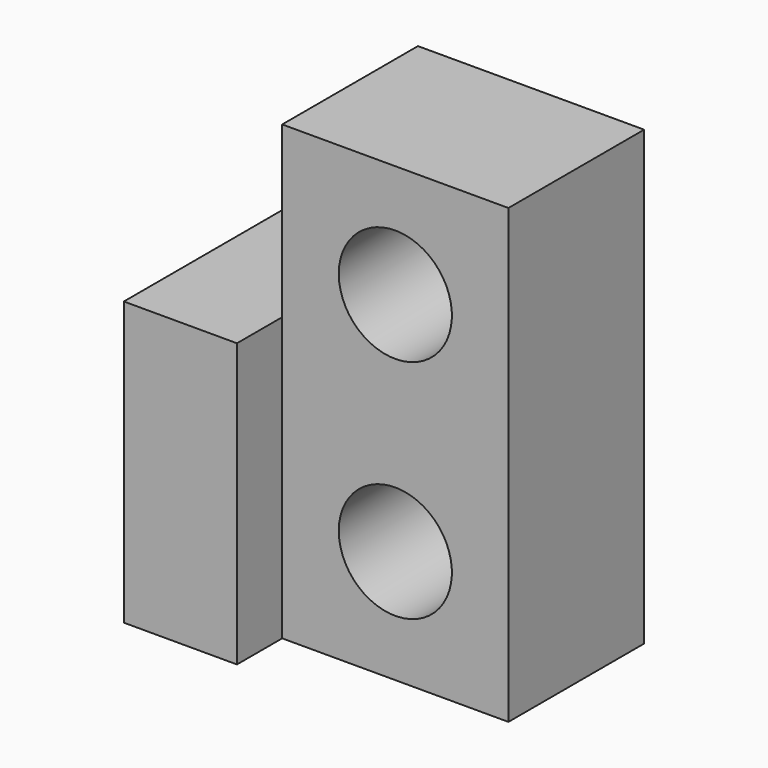
from build123d import *

# Parameters (mm, degrees)
F0_W     = 20
F0_H     = 40
F1_DEPTH = 15
F3_D     = 10
F3_DEPTH = 25.4
F4_W     = 20
F4_H     = 25
F5_DEPTH = 10


with BuildPart() as f1:
    # F0 (on Front) → F1 (new body)
    with BuildSketch(Plane.XZ):
        Rectangle(F0_W, F0_H)
    extrude(amount=F1_DEPTH)

    # F3
    with Locations(Plane.XZ.offset(15)):
        with Locations((0, 10), (0, -10)):
            Hole(F3_D / 2, depth=F3_DEPTH)

    # F4 (on face) → F5 (join)
    with BuildSketch(Plane(origin=(-10, 0, 0), x_dir=(0, -1, 0), z_dir=(-1, 0, 0))):
        with Locations((10, -7.5)):
            Rectangle(F4_W, F4_H)
    extrude(amount=F5_DEPTH)


solid = f1.part
